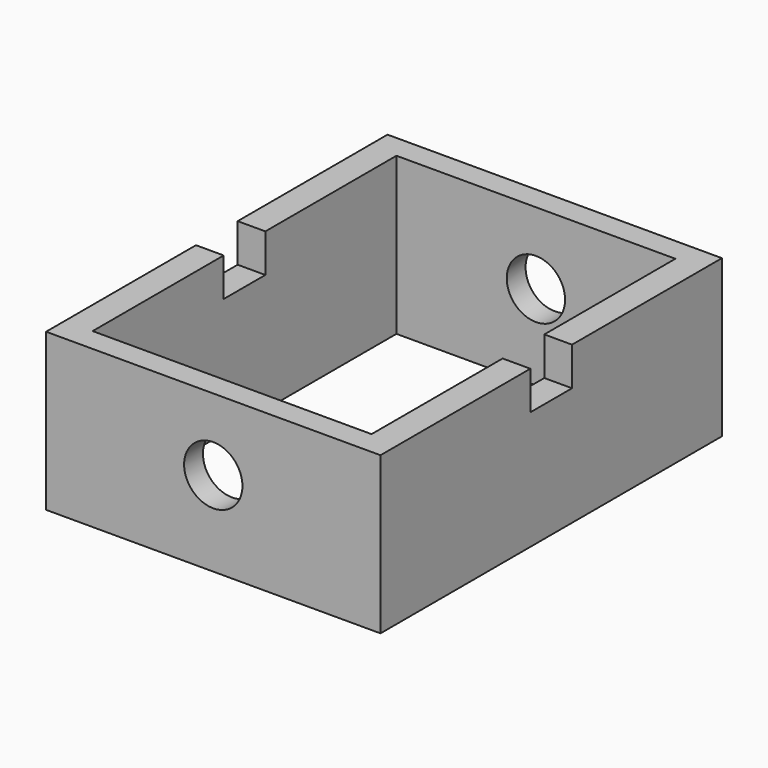
from build123d import *

# Parameters (mm, degrees)
F0_W     = 108.312868
F0_H     = 138.248578
F1_DEPTH = 50.8
F2_W     = 90.351426
F2_H     = 123.008572
F3_DEPTH = 110.998
F4_W     = 16.872856
F4_H     = 12.51857
F5_DEPTH = 66.802
F6_DEPTH = 162.56
F7_R     = 9.446924
F8_DEPTH = 123.952
F9_DEPTH = 117.602


with BuildPart() as f1:
    # F0 (on Top) → F1 (new body)
    with BuildSketch(Plane.XY):
        Rectangle(F0_W, F0_H)
    extrude(amount=F1_DEPTH)

    # F2 (on Top) → F3 (cut)
    with BuildSketch(Plane.XY):
        Rectangle(F2_W, F2_H)
    extrude(amount=F3_DEPTH, mode=Mode.SUBTRACT)

    # F4 (on Right) → F5 (cut)
    with BuildSketch(Plane.YZ):
        with Locations((0, 44.631429)):
            Rectangle(F4_W, F4_H)
    extrude(amount=-F5_DEPTH, mode=Mode.SUBTRACT)

    # F4 (on Right) → F6 (cut)
    with BuildSketch(Plane.YZ):
        with Locations((0, 44.631429)):
            Rectangle(F4_W, F4_H)
    extrude(amount=F6_DEPTH, mode=Mode.SUBTRACT)

    # F7 (on Front) → F8 (cut)
    with BuildSketch(Plane.XZ):
        with Locations((0, 27.486429)):
            Circle(F7_R)
    extrude(amount=F8_DEPTH, mode=Mode.SUBTRACT)

    # F7 (on Front) → F9 (cut)
    with BuildSketch(Plane.XZ):
        with Locations((0, 27.486429)):
            Circle(F7_R)
    extrude(amount=-F9_DEPTH, mode=Mode.SUBTRACT)


solid = f1.part
